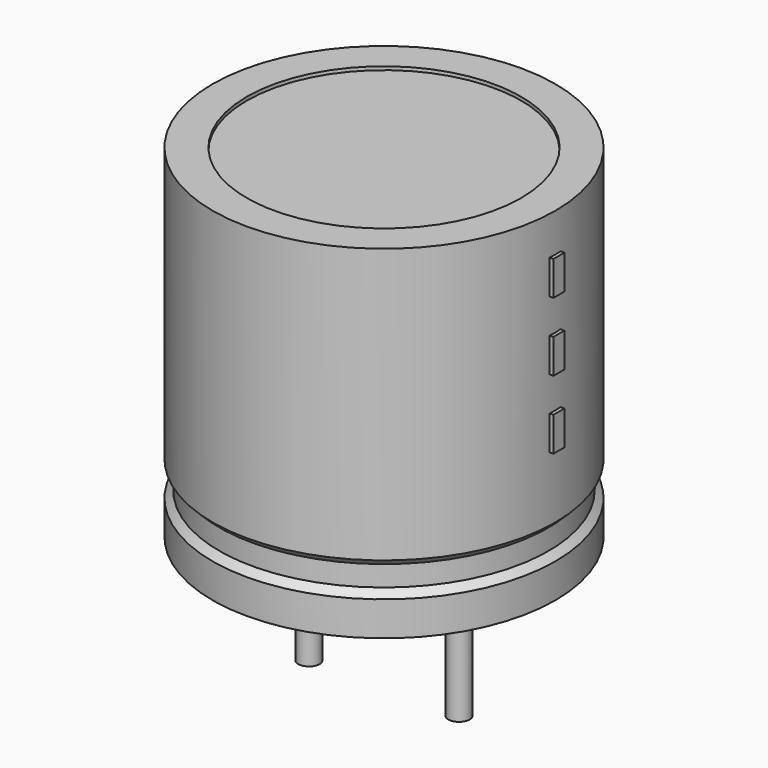
from build123d import *

# Parameters (mm, degrees)
SKETCH002_W  = 3.68
SKETCH002_H  = 7.84
SKETCH003_R  = 0.25
PAD_DEPTH    = 3.8
SKETCH004_W  = 0.32
SKETCH004_H  = 0.8
PAD001_DEPTH = 4.08


with BuildPart() as revolution:
    # Sketch → Revolution (revolve)
    with BuildSketch(Plane.XZ):
        Polygon((-2.25, 0.1), (-2.25, 0.9), (-2.09, 1.06), (-2.09, 1.54), (-2.25, 1.7), (-2.25, 8.1), (-1.45, 8.1), (-1.45, 0.1), align=None)
    revolve(axis=Axis((1.75, 0, 7.548619), (0, 0, -1)))


with BuildPart() as revolution001:
    # Sketch002 → Revolution001 (revolve)
    with BuildSketch(Plane.XZ):
        with Locations((-0.09, 4.1)):
            Rectangle(SKETCH002_W, SKETCH002_H)
    revolve(axis=Axis((1.75, 0, 4.680116), (0, 0, -1)))


with BuildPart() as pad:
    # Sketch003 → Pad (new body)
    with BuildSketch(Plane.XY.offset(0.8)):
        Circle(SKETCH003_R)
        with Locations((3.5, 0)):
            Circle(SKETCH003_R)
    extrude(amount=-PAD_DEPTH)


with BuildPart() as pad001:
    # Sketch004 → Pad001 (new body)
    with BuildSketch(Plane.YZ.offset(1.75)):
        with Locations((0, 3.6)):
            Rectangle(SKETCH004_W, SKETCH004_H)
        with Locations((0, 5.2)):
            Rectangle(SKETCH004_W, SKETCH004_H)
        with Locations((0, 6.8)):
            Rectangle(SKETCH004_W, SKETCH004_H)
    extrude(amount=PAD001_DEPTH)


solid = Compound([revolution.part, revolution001.part, pad.part, pad001.part])
